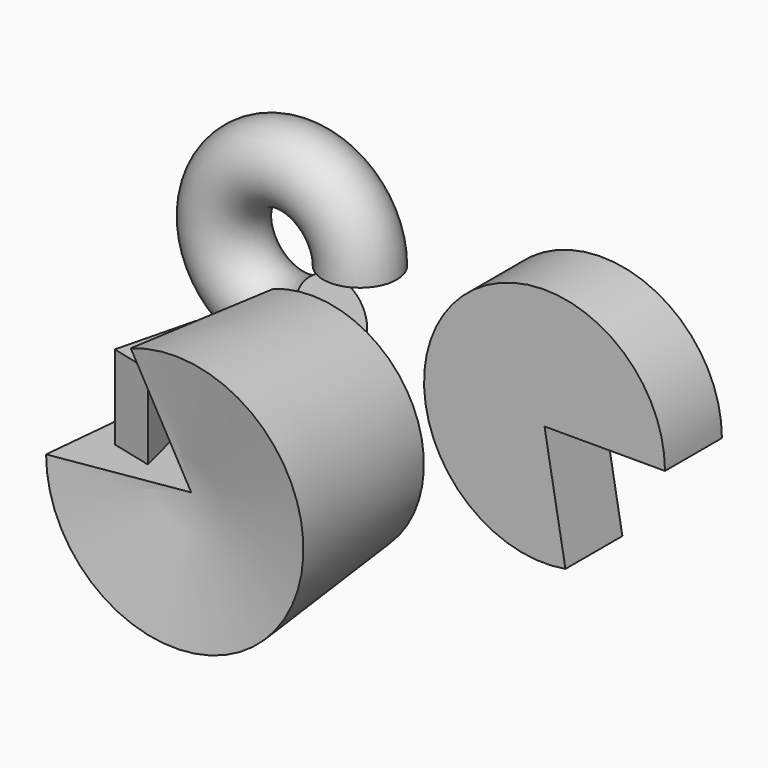
from build123d import *

# Parameters (mm, degrees)
F0_W     = 36.537992
F0_H     = 21.590633
F1_ANGLE = 280
F0_R     = 11.179722
F2_ANGLE = 305
F3_DEPTH = 25.4
F4_ANGLE = 290


with BuildPart() as f1:
    # F0 (on Top) → F1 (revolve)
    with BuildSketch(Plane.XY):
        with Locations((41.520446, 26.365479)):
            Rectangle(F0_W, F0_H)
    revolve(axis=Axis((23.25145, 26.365479, 0), (0, -1, 0)), revolution_arc=F1_ANGLE)


with BuildPart() as f2:
    # F0 (on Top) → F2 (revolve)
    with BuildSketch(Plane.XY):
        with Locations((-62.280677, 52.52336)):
            Circle(F0_R)
    revolve(axis=Axis((-82.910329, 50.982073, 0), (0, -1, 0)), revolution_arc=F2_ANGLE)


with BuildPart() as f3:
    # F0 (on Top) → F3 (new body)
    with BuildSketch(Plane.XY):
        Polygon((-37.92697, -58.363846), (-44.619087, -31.986151), (-50.431952, -55.237599), align=None)
    extrude(amount=F3_DEPTH)


with BuildPart() as f4:
    # F0 (on Top) → F4 (revolve)
    with BuildSketch(Plane.XY):
        Polygon((-20.952431, -29.079724), (-54.999199, -17.453996), (-59.981655, -69.354557), (-20.952431, -63.12649), align=None)
        Polygon((-50.431952, -55.237599), (-44.619087, -31.986151), (-37.92697, -58.363846), align=None, mode=Mode.SUBTRACT)
    revolve(axis=Axis((-20.952431, -46.103107, 0), (0, -1, 0)), revolution_arc=F4_ANGLE)


solid = Compound([f1.part, f2.part, f3.part, f4.part])
